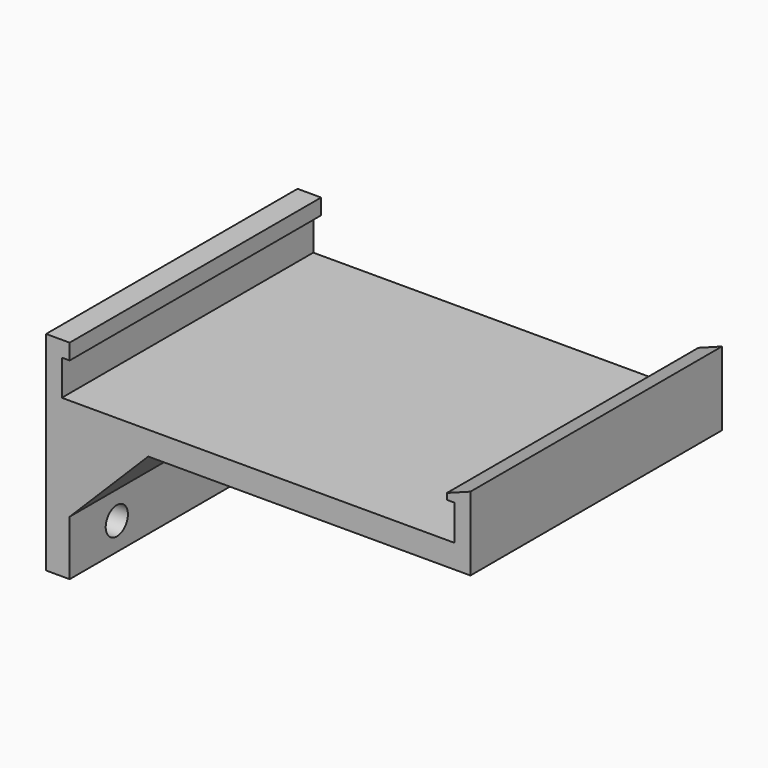
from build123d import *

# Parameters (mm, degrees)
F1_DEPTH = 40
F2_SIZE  = 10
F3_R     = 1.765
F3_R_2   = 1.75
F4_DEPTH = 25


with BuildPart() as f1:
    # F0 (on Front) → F1 (new body)
    with BuildSketch(Plane.XZ):
        Polygon((0, 6.5), (0, 0), (0, -20), (3, -20), (3, -3), (54, -3), (54, 0), (54, 6.395918), (51, 5.27192), (51, 4.5), (52, 4.5), (52, 0), (2, 0), (2, 4.5), (3, 4.5), (3, 6.5), align=None)
    extrude(amount=F1_DEPTH)

    # F2
    f2_edges = [f1.edges().sort_by_distance(p)[0] for p in [
        (3, -20, -3),
    ]]
    chamfer(f2_edges, length=F2_SIZE)

    # F3 (on face) → F4 (cut)
    with BuildSketch(Plane.YZ.offset(3)):
        with Locations((-32.5, -16.5)):
            Circle(F3_R)
        with Locations((-7.5, -16.5)):
            Circle(F3_R_2)
    extrude(amount=-F4_DEPTH, mode=Mode.SUBTRACT)


solid = f1.part
